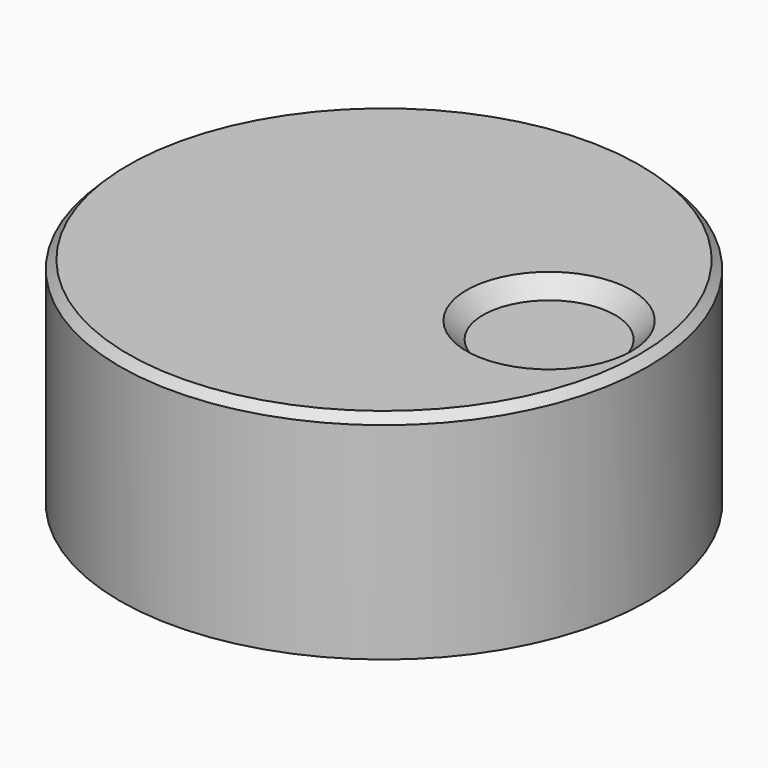
from build123d import *

# Parameters (mm, degrees)
CYLINDER009_R     = 8
CYLINDER009_DEPTH = 11
CYLINDER008_R     = 10
CYLINDER008_DEPTH = 11
BOX002_W          = 28
BOX002_H          = 0.8
BOX002_DEPTH      = 5
CYLINDER007_R     = 5
CYLINDER007_DEPTH = 2
CHAMFER003_SIZE   = 1
CYLINDER006_R     = 13
CYLINDER006_DEPTH = 11
CYLINDER005_R     = 16
CYLINDER005_DEPTH = 13
CHAMFER002_SIZE   = 0.5


with BuildPart() as cylinder009:
    # Cylinder009 → Cylinder009 (new body)
    with BuildSketch(Plane.XY):
        Circle(CYLINDER009_R)
    extrude(amount=CYLINDER009_DEPTH)


with BuildPart() as cut012:
    # Cylinder008 → Cylinder008 (new body)
    with BuildSketch(Plane.XY):
        Circle(CYLINDER008_R)
    extrude(amount=CYLINDER008_DEPTH)

    # Cut012: cut Cylinder009
    add(cylinder009.part, mode=Mode.SUBTRACT)


with BuildPart() as cube002:
    # Box002 → Box002 (new body)
    with BuildSketch(Plane(origin=(-14.5, -0.4, 6), x_dir=(1, 0, 0), z_dir=(0, 0, 1))):
        with Locations((14, 0.4)):
            Rectangle(BOX002_W, BOX002_H)
    extrude(amount=BOX002_DEPTH)


with BuildPart() as chamfer003:
    # Cylinder007 → Cylinder007 (new body)
    with BuildSketch(Plane.XY.offset(19)):
        Circle(CYLINDER007_R)
    extrude(amount=CYLINDER007_DEPTH)

    # Chamfer003
    chamfer003_edges = [chamfer003.edges().sort_by_distance(p)[0] for p in [
        (-5, 0, 19),
    ]]
    chamfer(chamfer003_edges, length=CHAMFER003_SIZE)


with BuildPart() as chamfer003_1:
    # Chamfer003 placement: moved
    add(chamfer003.part.moved(Location((10, 0, -7))))


with BuildPart() as cylinder006:
    # Cylinder006 → Cylinder006 (new body)
    with BuildSketch(Plane.XY):
        Circle(CYLINDER006_R)
    extrude(amount=CYLINDER006_DEPTH)


with BuildPart() as big_knob:
    # Cylinder005 → Cylinder005 (new body)
    with BuildSketch(Plane.XY):
        Circle(CYLINDER005_R)
    extrude(amount=CYLINDER005_DEPTH)

    # Cut010: cut Cylinder006
    add(cylinder006.part, mode=Mode.SUBTRACT)

    # Chamfer002
    chamfer002_edges = [big_knob.edges().sort_by_distance(p)[0] for p in [
        (-16, 0, 13),
    ]]
    chamfer(chamfer002_edges, length=CHAMFER002_SIZE)

    # Cut011: cut Chamfer003
    add(chamfer003_1.part, mode=Mode.SUBTRACT)

    # Fusion: union Cut012, Cube002
    add(cut012.part)
    add(cube002.part)


solid = big_knob.part
